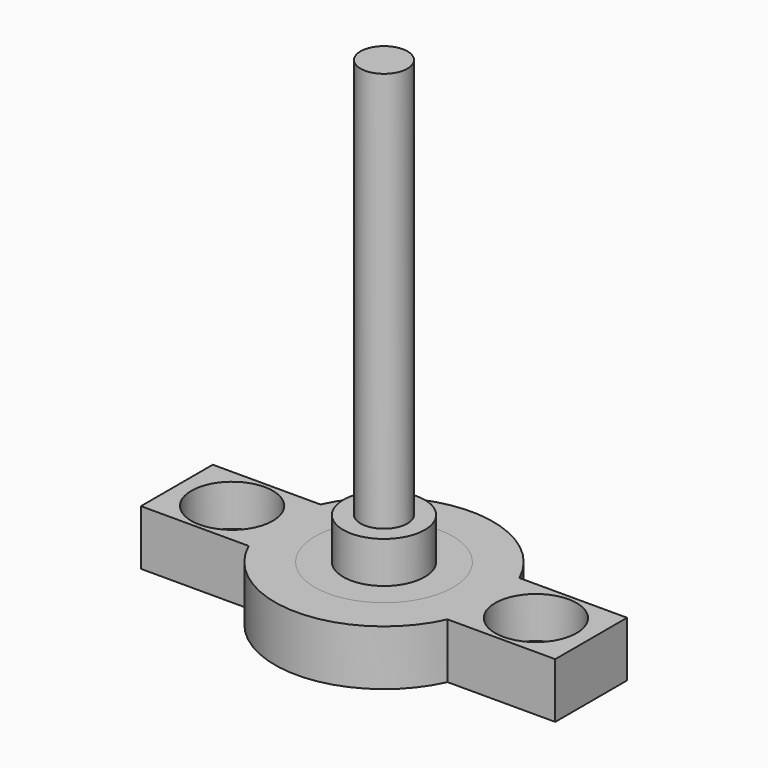
from build123d import *

# Parameters (mm, degrees)
CYLINDER_R               = 2.95
CYLINDER_DEPTH           = 7
CYLINDER001_R            = 1.7
CYLINDER001_DEPTH        = 30
CLONE060_PLACEMENT_ANGLE = 180
CLONE059_PLACEMENT_ANGLE = 180
PAD010_DEPTH             = 4
CYLINDER1032_R           = 5
CYLINDER1032_DEPTH       = 4


with BuildPart() as m3bolthead:
    # Cylinder → Cylinder (new body)
    with BuildSketch(Plane.XY):
        Circle(CYLINDER_R)
    extrude(amount=CYLINDER_DEPTH)


with BuildPart() as m3bolt:
    # Cylinder001 → Cylinder001 (new body)
    with BuildSketch(Plane.XY.offset(6)):
        Circle(CYLINDER001_R)
    extrude(amount=CYLINDER001_DEPTH)

    # Fusion: union M3BoltHead
    add(m3bolthead.part)


with BuildPart() as clone_of_m3bolt020:
    # Clone060 base: copy of M3Bolt
    add(m3bolt.part)


with BuildPart() as clone_of_m3bolt020_1:
    # Clone060 placement: moved
    add(clone_of_m3bolt020.part.moved(Location((-11, 0, 8))).rotate(Axis((-11, 0, 8), (0, 1, 0)), CLONE060_PLACEMENT_ANGLE))


with BuildPart() as fusion020:
    # Clone059 base: copy of M3Bolt
    add(m3bolt.part)


with BuildPart() as fusion020_1:
    # Clone059 placement: moved
    add(fusion020.part.moved(Location((11, 0, 8))).rotate(Axis((11, 0, 8), (0, 1, 0)), CLONE059_PLACEMENT_ANGLE))

    # Fusion020: union Clone of M3Bolt020
    add(clone_of_m3bolt020_1.part)


with BuildPart() as obj1:
    # Sketch017 → Pad010 (new body)
    with BuildSketch(Plane.XY):
        with BuildLine():
            ThreePointArc((-7.200521, -3.25), (0, -7.9), (7.200521, -3.25))
            Line((15, -3.25), (7.200521, -3.25))
            Line((15, 3.25), (15, -3.25))
            Line((7.200521, 3.25), (15, 3.25))
            ThreePointArc((7.200521, 3.25), (0, 7.9), (-7.200521, 3.25))
            Line((-15, 3.25), (-7.200521, 3.25))
            Line((-15, -3.25), (-15, 3.25))
            Line((-7.200521, -3.25), (-15, -3.25))
        make_face()
    extrude(amount=PAD010_DEPTH)

    # Cut021: cut Fusion020
    add(fusion020_1.part, mode=Mode.SUBTRACT)


with BuildPart() as cylinder1074:
    # Cylinder1032 → Cylinder1032 (new body)
    with BuildSketch(Plane.XY):
        Circle(CYLINDER1032_R)
    extrude(amount=CYLINDER1032_DEPTH)


with BuildPart() as obj2:
    # Clone312 base: copy of obj1
    add(obj1.part)

    # Cut092: cut Cylinder1074
    add(cylinder1074.part, mode=Mode.SUBTRACT)


solid = Compound([m3bolt.part, obj1.part, obj2.part])
